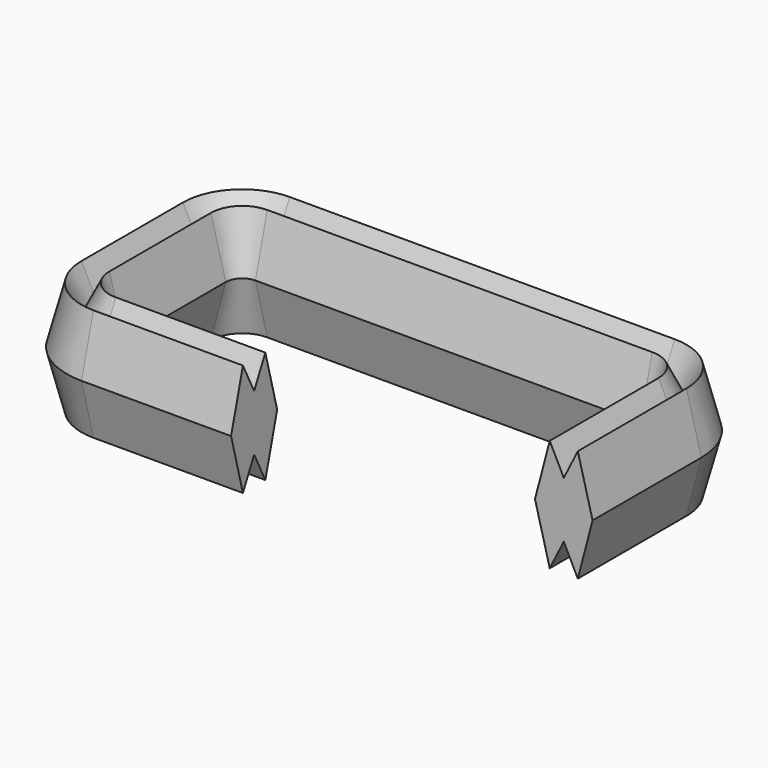
from build123d import *


with BuildPart() as f2:
    # F2: sweep along a path in F1
    with BuildLine(Plane.XY) as f2_path:
        Line((0, 0), (-33.020873, 0))
        ThreePointArc((-33.020873, 0), (-40.09194, 2.928932), (-43.020873, 10))
        Line((-43.020873, 10), (-43.020873, 38))
        ThreePointArc((-43.020873, 38), (-40.09194, 45.071068), (-33.020873, 48))
        Line((-33.020873, 48), (51.979127, 48))
        ThreePointArc((51.979127, 48), (59.050195, 45.071068), (61.979127, 38))
        Line((61.979127, 38), (61.979127, 8))
    # F0 (on Right) → F2 (sweep)
    with BuildSketch(Plane.YZ):
        Polygon((0, 6.195653), (-3.097828, 12.391306), (-6.358698, 0), (-3.097828, -12.391306), (0, -6.195653), (3.097828, -12.391306), (6.358698, 0), (3.097828, 12.391306), align=None)
    sweep(path=f2_path.line)


solid = f2.part
